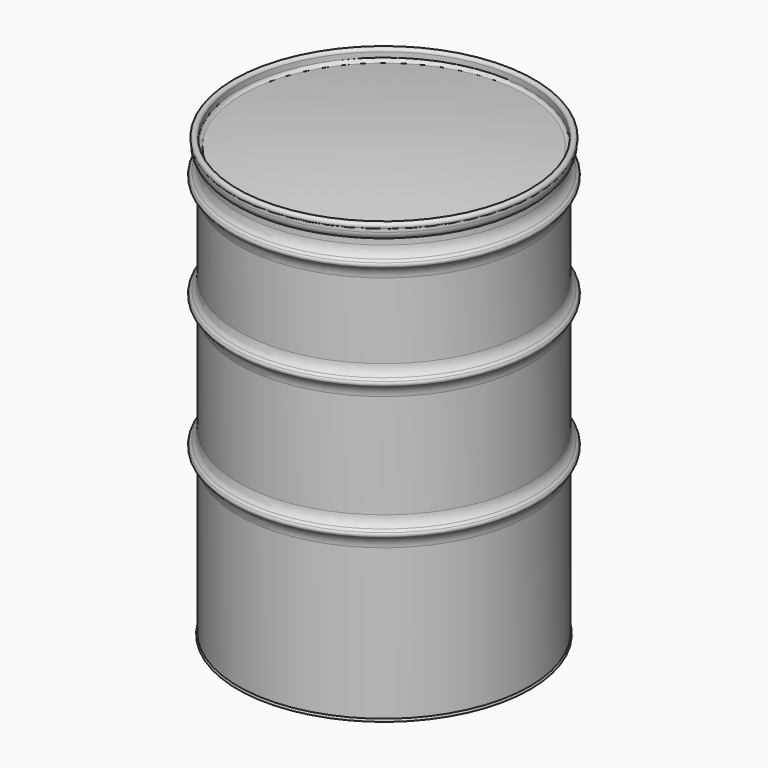
from build123d import *


with BuildPart() as f1:
    # F0 (on Front) → F1 (revolve)
    with BuildSketch(Plane.XZ):
        with BuildLine():
            ThreePointArc((-306, 6.1144940041), (-307.9155672407, 2.5635543618), (-304.8, 0))
            Line((-304.8, 0), (-304.8, 321.8553853094))
            ThreePointArc((-304.8, 321.8553853094), (-307.2017802847, 333.929950186), (-314.0414718626, 344.1662720164))
            Line((-314.0414718626, 344.1662720164), (-318.5315999231, 348.6564000769))
            ThreePointArc((-318.5315999231, 348.6564000769), (-320.04, 352.298), (-318.5315999231, 355.9395999231))
            Line((-318.5315999231, 355.9395999231), (-314.0414718626, 360.4297279836))
            ThreePointArc((-314.0414718626, 360.4297279836), (-307.2017802847, 370.666049814), (-304.8, 382.7406146906))
            Line((-304.8, 382.7406146906), (-304.8, 601.2553853094))
            ThreePointArc((-304.8, 601.2553853094), (-307.2017802847, 613.329950186), (-314.0414718626, 623.5662720164))
            Line((-314.0414718626, 623.5662720164), (-318.5315999231, 628.0564000769))
            ThreePointArc((-318.5315999231, 628.0564000769), (-320.04, 631.698), (-318.5315999231, 635.3395999231))
            Line((-318.5315999231, 635.3395999231), (-314.0414718626, 639.8297279836))
            ThreePointArc((-314.0414718626, 639.8297279836), (-307.2017802847, 650.066049814), (-304.8, 662.1406146906))
            Line((-304.8, 662.1406146906), (-304.8, 820.4573853094))
            ThreePointArc((-304.8, 820.4573853094), (-307.0849165099, 832.5994920595), (-313.9136514881, 842.8960923908))
            Line((-313.9136514881, 842.8960923908), (-318.4037795486, 847.3862204514))
            ThreePointArc((-318.4037795486, 847.3862204514), (-319.8592346929, 850.9), (-318.4037795486, 854.4137795486))
            Line((-318.4037795486, 854.4137795486), (-313.9136514881, 858.9039076092))
            ThreePointArc((-313.9136514881, 858.9039076092), (-307.1653434729, 869.2331739631), (-304.8, 881.3426146906))
            Line((-304.8, 881.3426146906), (-304.8, 920.75))
            ThreePointArc((-304.8, 920.75), (-316.8405093966, 923.5679075228), (-307.3009772621, 915.6995026024))
            Line((-307.3009772621, 915.6995026024), (-308.0283516377, 916.6539273075))
            ThreePointArc((-308.0283516377, 916.6539273075), (-315.7651375421, 923.0353895657), (-306, 920.75))
            Line((-306, 920.75), (-306, 881.3426146906))
            ThreePointArc((-306, 881.3426146906), (-308.3104357237, 869.7272699328), (-314.89, 859.8802561211))
            Line((-314.89, 859.8802561211), (-319.3801280605, 855.3901280605))
            ThreePointArc((-319.3801280605, 855.3901280605), (-321.24, 850.9), (-319.3801280605, 846.4098719395))
            Line((-319.3801280605, 846.4098719395), (-314.89, 841.9197438789))
            ThreePointArc((-314.89, 841.9197438789), (-308.3104357237, 832.0727300672), (-306, 820.4573853094))
            Line((-306, 820.4573853094), (-306, 662.1406146906))
            ThreePointArc((-306, 662.1406146906), (-308.3104357237, 650.5252699328), (-314.89, 640.6782561211))
            Line((-314.89, 640.6782561211), (-319.3801280605, 636.1881280605))
            ThreePointArc((-319.3801280605, 636.1881280605), (-321.24, 631.698), (-319.3801280605, 627.2078719395))
            Line((-319.3801280605, 627.2078719395), (-314.89, 622.7177438789))
            ThreePointArc((-314.89, 622.7177438789), (-308.3104357237, 612.8707300672), (-306, 601.2553853094))
            Line((-306, 601.2553853094), (-306, 382.7406146906))
            ThreePointArc((-306, 382.7406146906), (-308.3104357237, 371.1252699328), (-314.89, 361.2782561211))
            Line((-314.89, 361.2782561211), (-319.3801280605, 356.7881280605))
            ThreePointArc((-319.3801280605, 356.7881280605), (-321.24, 352.298), (-319.3801280605, 347.8078719395))
            Line((-319.3801280605, 347.8078719395), (-314.89, 343.3177438789))
            ThreePointArc((-314.89, 343.3177438789), (-308.3104357237, 333.4707300672), (-306, 321.8553853094))
            Line((-306, 321.8553853094), (-306, 6.1144940041))
        make_face()
    revolve(axis=Axis((0, 0, 88.6719599366), (0, 0, 1)))

    # F2 (on Front) → F3 (revolve)
    with BuildSketch(Plane.XZ):
        with BuildLine():
            ThreePointArc((-301.3726000332, 22.341951699), (-303.7789794689, 21.5095945742), (-304.8, 19.177))
            Line((-304.8, 19.177), (-304.8, 0))
            Line((-304.8, 0), (-303.6, 0))
            Line((-303.6, 0), (-303.6, 19.177))
            ThreePointArc((-303.6, 19.177), (-302.9648769925, 20.6279840264), (-301.4679952962, 21.145749482))
            ThreePointArc((-301.4679952962, 21.145749482), (-150.8534008388, 12.1456252908), (0, 9.144))
            Line((0, 9.144), (0, 10.344))
            ThreePointArc((0, 10.344), (-150.8056654238, 13.3446754691), (-301.3726000332, 22.341951699))
        make_face()
    revolve(axis=Axis((0, 0, 97.150310874), (0, 0, -1)))


with BuildPart() as f5:
    # F4 (on Front) → F5 (revolve)
    with BuildSketch(Plane.XZ):
        with BuildLine():
            Line((-304.8, 909.898), (-304.8, 920.75))
            Line((-304.8, 920.75), (-306, 920.75))
            ThreePointArc((-306, 920.75), (-311.15, 915.6), (-316.3, 920.75))
            Line((-316.3, 920.75), (-316.3, 909.898))
            ThreePointArc((-316.3, 909.898), (-310.1479668134, 896.4154159586), (-295.9324848815, 892.2264234538))
            ThreePointArc((-295.9324848815, 892.2264234538), (-148.3373912078, 907.9500380086), (0, 913.2))
            Line((0, 913.2), (0, 924.7))
            ThreePointArc((0, 924.7), (-149.1503896309, 919.4212643407), (-297.5544133892, 903.6114727693))
            ThreePointArc((-297.5544133892, 903.6114727693), (-302.6114615835, 905.1016745847), (-304.8, 909.898))
        make_face()
    revolve(axis=Axis((0, 0, 399.7365534306), (0, 0, -1)))


solid = Compound([f1.part, f5.part])
